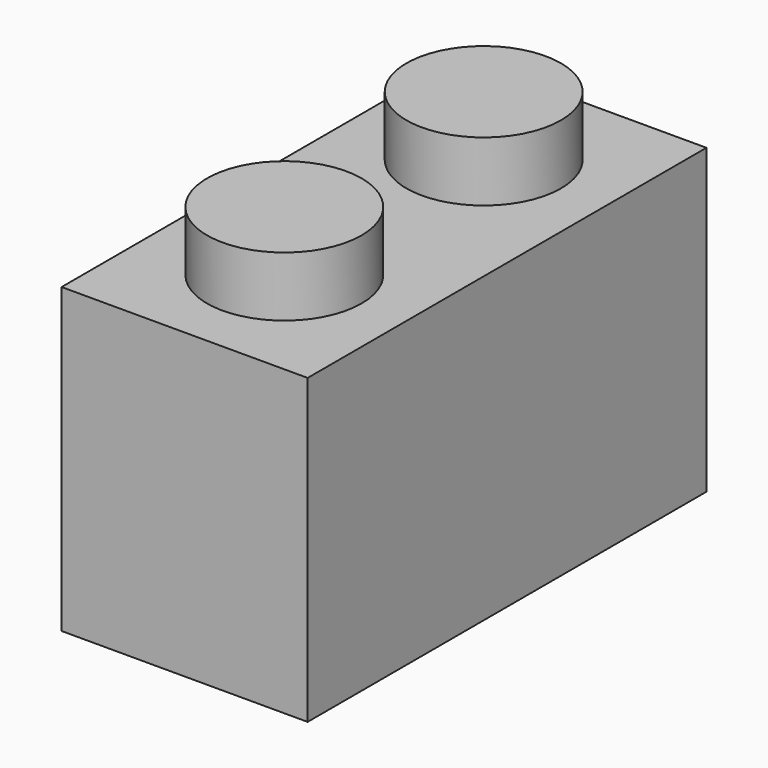
from build123d import *

# Parameters (mm, degrees)
F0_W      = 7.8
F0_H      = 15.8
F2_DEPTH  = 9.6
F3_R      = 2.45
F4_DEPTH  = 1.9
F6_DEPTH  = 8.3
F7_DEPTH  = 8.3
F8_DEPTH  = 8.3
F9_DEPTH  = 8.3
F10_DEPTH = 2
F11_DEPTH = 2


with BuildPart() as f2:
    # F0 (on Top) → F2 (new body)
    with BuildSketch(Plane.XY):
        with Locations((-57.467087, 32.808982)):
            Rectangle(F0_W, F0_H)
    extrude(amount=F2_DEPTH)

    # F3 (on face) → F4 (join)
    with BuildSketch(Plane.XY.offset(9.6)):
        with Locations((-57.467087, 36.758982)):
            Circle(F3_R)
        with Locations((-57.467087, 28.858982)):
            Circle(F3_R)
    extrude(amount=F4_DEPTH)

    # F5 (on face) → F6 (cut)
    with BuildSketch(Plane(origin=(0, 0, 0), x_dir=(1, 0, 0), z_dir=(0, 0, -1))):
        with BuildLine():
            Line((-55.067087, -26.408982), (-59.867087, -26.408982))
            Line((-59.867087, -26.408982), (-59.867087, -32.783981))
            Line((-59.867087, -32.783981), (-59.016885, -32.783981))
            ThreePointArc((-59.016885, -32.783981), (-57.467087, -31.258982), (-55.917289, -32.783981))
            Line((-55.917289, -32.783981), (-55.067087, -32.783981))
            Line((-55.067087, -32.783981), (-55.067087, -26.408982))
        make_face()
    extrude(amount=-F6_DEPTH, mode=Mode.SUBTRACT)

    # F5 (on face) → F7 (cut)
    with BuildSketch(Plane(origin=(0, 0, 0), x_dir=(1, 0, 0), z_dir=(0, 0, -1))):
        with BuildLine():
            Line((-55.067087, -26.408982), (-59.867087, -26.408982))
            Line((-59.867087, -26.408982), (-59.867087, -32.783981))
            Line((-59.867087, -32.783981), (-59.016885, -32.783981))
            ThreePointArc((-59.016885, -32.783981), (-57.467087, -31.258982), (-55.917289, -32.783981))
            Line((-55.917289, -32.783981), (-55.067087, -32.783981))
            Line((-55.067087, -32.783981), (-55.067087, -26.408982))
        make_face()
        with BuildLine():
            Line((-59.016885, -32.783981), (-59.867087, -32.783981))
            Line((-59.867087, -32.783981), (-59.867087, -32.833982))
            Line((-59.867087, -32.833982), (-59.016885, -32.833982))
            ThreePointArc((-59.016885, -32.833982), (-59.017087, -32.808982), (-59.016885, -32.783981))
        make_face()
        with BuildLine():
            Line((-55.067087, -32.833982), (-55.067087, -32.783981))
            Line((-55.067087, -32.783981), (-55.917289, -32.783981))
            ThreePointArc((-55.917289, -32.783981), (-55.917137, -32.796481), (-55.917087, -32.808982))
            ThreePointArc((-55.917087, -32.808982), (-55.917137, -32.821483), (-55.917289, -32.833982))
            Line((-55.917289, -32.833982), (-55.067087, -32.833982))
        make_face()
        with BuildLine():
            Line((-59.016885, -32.833982), (-59.867087, -32.833982))
            Line((-59.867087, -32.833982), (-59.867087, -39.208982))
            Line((-59.867087, -39.208982), (-55.067087, -39.208982))
            Line((-55.067087, -39.208982), (-55.067087, -32.833982))
            Line((-55.067087, -32.833982), (-55.917289, -32.833982))
            ThreePointArc((-55.917289, -32.833982), (-57.467087, -34.358982), (-59.016885, -32.833982))
        make_face()
    extrude(amount=-F7_DEPTH, mode=Mode.SUBTRACT)

    # F5 (on face) → F8 (join)
    with BuildSketch(Plane(origin=(0, 0, 0), x_dir=(1, 0, 0), z_dir=(0, 0, -1))):
        with BuildLine():
            Line((-55.067087, -32.833982), (-55.067087, -32.783981))
            Line((-55.067087, -32.783981), (-55.917289, -32.783981))
            ThreePointArc((-55.917289, -32.783981), (-55.917137, -32.796481), (-55.917087, -32.808982))
            ThreePointArc((-55.917087, -32.808982), (-55.917137, -32.821483), (-55.917289, -32.833982))
            Line((-55.917289, -32.833982), (-55.067087, -32.833982))
        make_face()
    extrude(amount=-F8_DEPTH)

    # F5 (on face) → F9 (join)
    with BuildSketch(Plane(origin=(0, 0, 0), x_dir=(1, 0, 0), z_dir=(0, 0, -1))):
        with BuildLine():
            Line((-59.016885, -32.783981), (-59.867087, -32.783981))
            Line((-59.867087, -32.783981), (-59.867087, -32.833982))
            Line((-59.867087, -32.833982), (-59.016885, -32.833982))
            ThreePointArc((-59.016885, -32.833982), (-59.017087, -32.808982), (-59.016885, -32.783981))
        make_face()
    extrude(amount=-F9_DEPTH)

    # F5 (on face) → F10 (cut)
    with BuildSketch(Plane(origin=(0, 0, 0), x_dir=(1, 0, 0), z_dir=(0, 0, -1))):
        with BuildLine():
            Line((-59.016885, -32.783981), (-59.867087, -32.783981))
            Line((-59.867087, -32.783981), (-59.867087, -32.833982))
            Line((-59.867087, -32.833982), (-59.016885, -32.833982))
            ThreePointArc((-59.016885, -32.833982), (-59.017087, -32.808982), (-59.016885, -32.783981))
        make_face()
    extrude(amount=-F10_DEPTH, mode=Mode.SUBTRACT)

    # F5 (on face) → F11 (cut)
    with BuildSketch(Plane(origin=(0, 0, 0), x_dir=(1, 0, 0), z_dir=(0, 0, -1))):
        with BuildLine():
            Line((-55.067087, -32.833982), (-55.067087, -32.783981))
            Line((-55.067087, -32.783981), (-55.917289, -32.783981))
            ThreePointArc((-55.917289, -32.783981), (-55.917137, -32.796481), (-55.917087, -32.808982))
            ThreePointArc((-55.917087, -32.808982), (-55.917137, -32.821483), (-55.917289, -32.833982))
            Line((-55.917289, -32.833982), (-55.067087, -32.833982))
        make_face()
    extrude(amount=-F11_DEPTH, mode=Mode.SUBTRACT)


solid = f2.part
